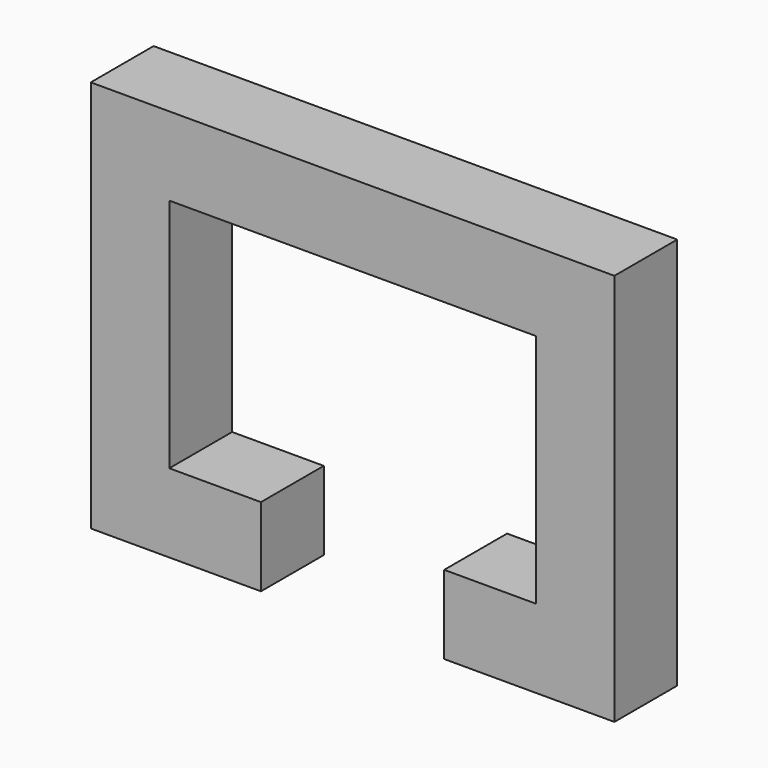
from build123d import *

# Parameters (mm, degrees)
F0_W     = 152.4
F0_H     = 457.2
F1_DEPTH = 152.4


with BuildPart() as f1:
    # F0 (on Front) → F1 (new body)
    with BuildSketch(Plane.XZ):
        with Locations((-76.2, -228.6)):
            Rectangle(F0_W, F0_H)
        Polygon((-152.4, 0), (0, 0), (0, 152.4), (-1016, 152.4), (-1016, 0), (-863.6, 0), align=None)
        Polygon((0, -609.6), (0, -457.2), (-152.4, -457.2), (-330.2, -457.2), (-330.2, -609.6), align=None)
        with Locations((-939.8, -228.6)):
            Rectangle(F0_W, F0_H)
        Polygon((-685.8, -457.2), (-863.6, -457.2), (-1016, -457.2), (-1016, -609.6), (-685.8, -609.6), align=None)
    extrude(amount=F1_DEPTH)


solid = f1.part
